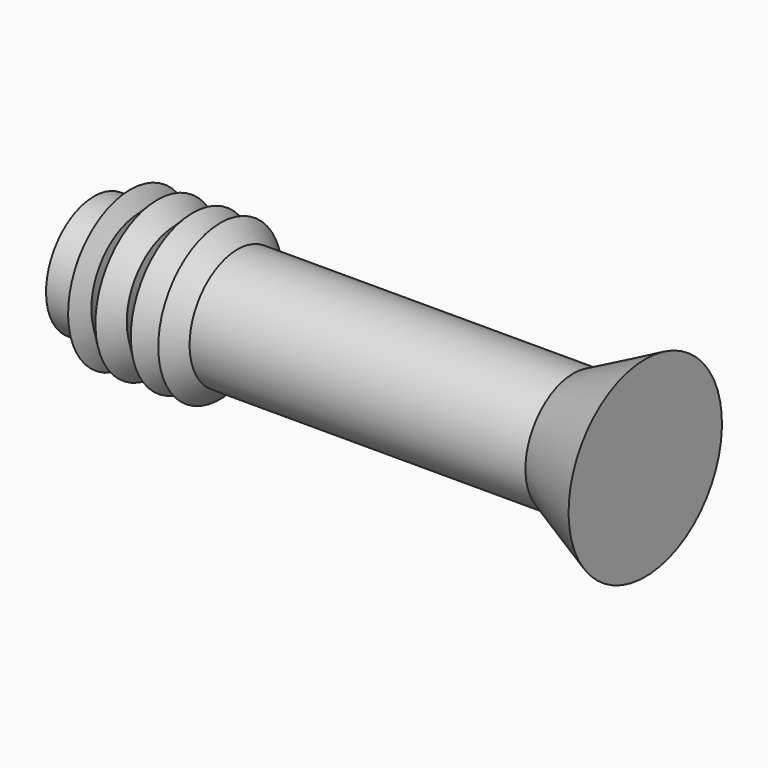
from build123d import *


with BuildPart() as f1:
    # F0 (on Front) → F1 (revolve)
    with BuildSketch(Plane.XZ):
        Polygon((10.160314, 25), (0, 25), (0, 0), (230, 0), (230, 40), (200, 25), (59.881862, 25), (48.4292, 25), (33.664342, 25), (18.899484, 25), align=None)
        Polygon((15.099845, 32.379244), (10.160314, 25), (18.899484, 25), align=None)
        Polygon((26.498765, 32.379244), (18.899484, 25), (33.664342, 25), align=None)
        Polygon((41.263623, 32.379244), (33.664342, 25), (48.4292, 25), align=None)
        Polygon((52.716285, 32.379244), (48.4292, 25), (59.881862, 25), align=None)
    revolve(axis=Axis((115, 0, 0), (-1, 0, 0)))


solid = f1.part
